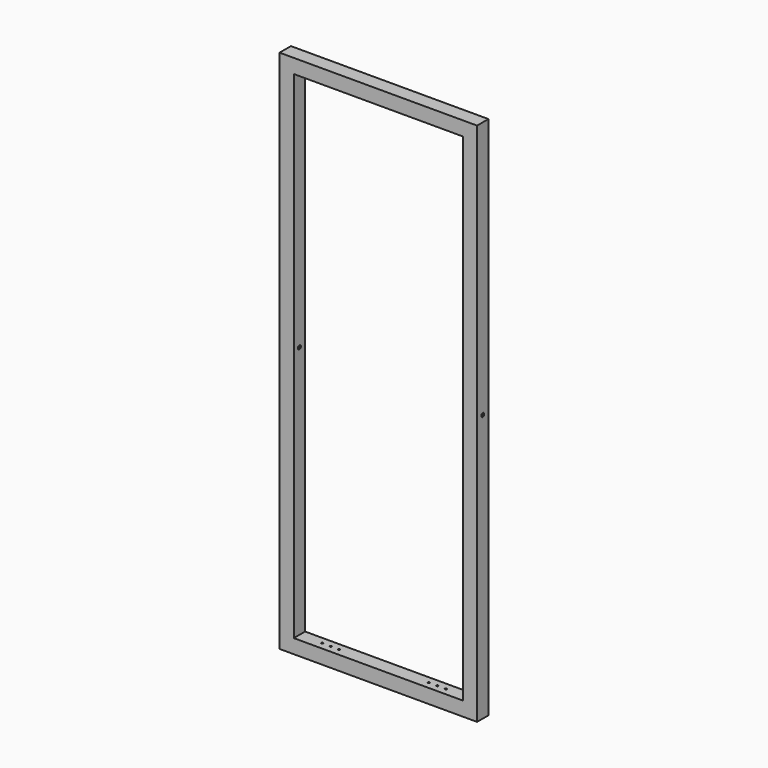
from build123d import *

# Parameters (mm, degrees)
F0_W     = 348
F0_H     = 925
F0_W_2   = 298
F0_H_2   = 875
F1_DEPTH = 25
F3_D     = 6.6
F3_DEPTH = 500
F3_TIP   = 1.9828400428
F4_R     = 1.65
F5_DEPTH = 4
F7_W     = 344.8
F7_H     = 921.8
F7_W_2   = 301.2
F7_H_2   = 878.2
F8_DEPTH = 21.8


with BuildPart() as f1:
    # F0 (on Front) → F1 (new body)
    with BuildSketch(Plane.XZ):
        Rectangle(F0_W, F0_H)
        Rectangle(F0_W_2, F0_H_2, mode=Mode.SUBTRACT)
    extrude(amount=F1_DEPTH)

    # F3
    with Locations(Plane.YZ.offset(174)):
        with Locations((-12.5, 8.5)):
            Hole(F3_D / 2, depth=F3_DEPTH)
            with Locations((0, 0, -(F3_DEPTH + F3_TIP / 2))):  # 118° drill point
                Cone(0, F3_D / 2, F3_TIP, mode=Mode.SUBTRACT)

    # F4 (on face) → F5 (cut)
    with BuildSketch(Plane.XY.offset(-437.5)):
        with Locations((109, -12.5)):
            Circle(F4_R)
        with Locations((94, -12.5)):
            Circle(F4_R)
        with Locations((79, -12.5)):
            Circle(F4_R)
        with Locations((-79, -12.5)):
            Circle(F4_R)
        with Locations((-94, -12.5)):
            Circle(F4_R)
        with Locations((-109, -12.5)):
            Circle(F4_R)
    extrude(amount=-F5_DEPTH, mode=Mode.SUBTRACT)

    # F7 (on offset) → F8 (cut)
    with BuildSketch(Plane.XZ.offset(23.4)):
        Rectangle(F7_W, F7_H)
        Rectangle(F7_W_2, F7_H_2, mode=Mode.SUBTRACT)
    extrude(amount=-F8_DEPTH, mode=Mode.SUBTRACT)


solid = f1.part
